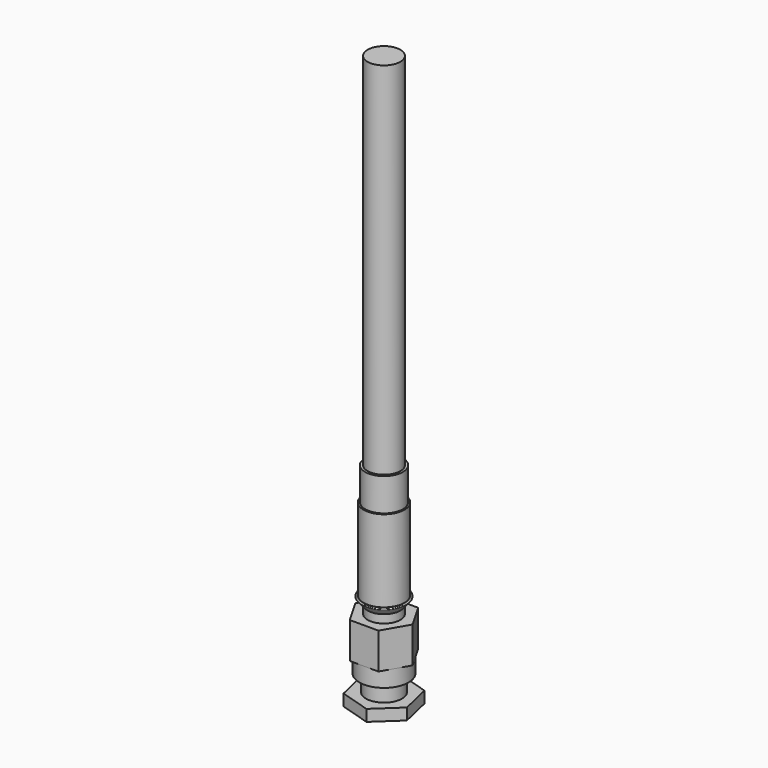
from build123d import *

# Parameters (mm, degrees)
F0_R      = 2.54
F1_DEPTH  = 76.2
F3_DEPTH  = 5.588
F4_R      = 3.81
F5_DEPTH  = 2.54
F6_R      = 2.794
F7_DEPTH  = 2.54
F9_DEPTH  = 1.778
F11_R     = 2.54
F12_DEPTH = 1.27
F12_TAPER = -40
F13_R     = 0.127
F14_R     = 3.175
F15_DEPTH = 12.7
F16_R     = 2.921
F17_DEPTH = 5.08


with BuildPart() as f1:
    # F0 (on Top) → F1 (new body)
    with BuildSketch(Plane.XY):
        Circle(F0_R)
    extrude(amount=F1_DEPTH)

    # F2 (on Top) → F3 (join)
    with BuildSketch(Plane.XY):
        Polygon((2.2225, -3.8494829198), (4.445, 0), (2.2225, 3.8494829198), (-2.2225, 3.8494829198), (-4.445, 0), (-2.2225, -3.8494829198), align=None)
    extrude(amount=-F3_DEPTH)

    # F4 (on face) → F5 (join)
    with BuildSketch(Plane(origin=(0, 0, -5.588), x_dir=(1, 0, 0), z_dir=(0, 0, -1))):
        Circle(F4_R)
    extrude(amount=F5_DEPTH)

    # F6 (on face) → F7 (join)
    with BuildSketch(Plane(origin=(0, 0, -8.128), x_dir=(1, 0, 0), z_dir=(0, 0, -1))):
        Circle(F6_R)
    extrude(amount=F7_DEPTH)

    # F8 (on face) → F9 (join)
    with BuildSketch(Plane(origin=(0, 0, -10.668), x_dir=(1, 0, 0), z_dir=(0, 0, -1))):
        Polygon((-3.5949849635, 3.3503722934), (-4.699, -1.4381621579), (-1.1040150365, -4.7885344513), (3.5949849635, -3.3503722934), (4.699, 1.4381621579), (1.1040150365, 4.7885344513), align=None)
    extrude(amount=F9_DEPTH)



with BuildPart() as f12:
    # F11 (on offset) → F12 (new body)
    with BuildSketch(Plane.XY.offset(1.27)):
        Circle(F11_R)
    extrude(amount=F12_DEPTH, taper=F12_TAPER)

    # F13
    f13_edges = [f12.edges().sort_by_distance(p)[0] for p in [
        (-3.605657, 0, 2.54),
    ]]
    fillet(f13_edges, radius=F13_R)


with BuildPart() as f1_1:
    add(f1.part)

    add(f12.part)  # F15 merges F12
    # F14 (on face) → F15 (join)
    with BuildSketch(Plane.XY.offset(2.54)):
        Circle(F14_R)
    extrude(amount=F15_DEPTH)

    # F16 (on face) → F17 (join)
    with BuildSketch(Plane.XY.offset(15.24)):
        Circle(F16_R)
    extrude(amount=F17_DEPTH)


solid = f1_1.part
